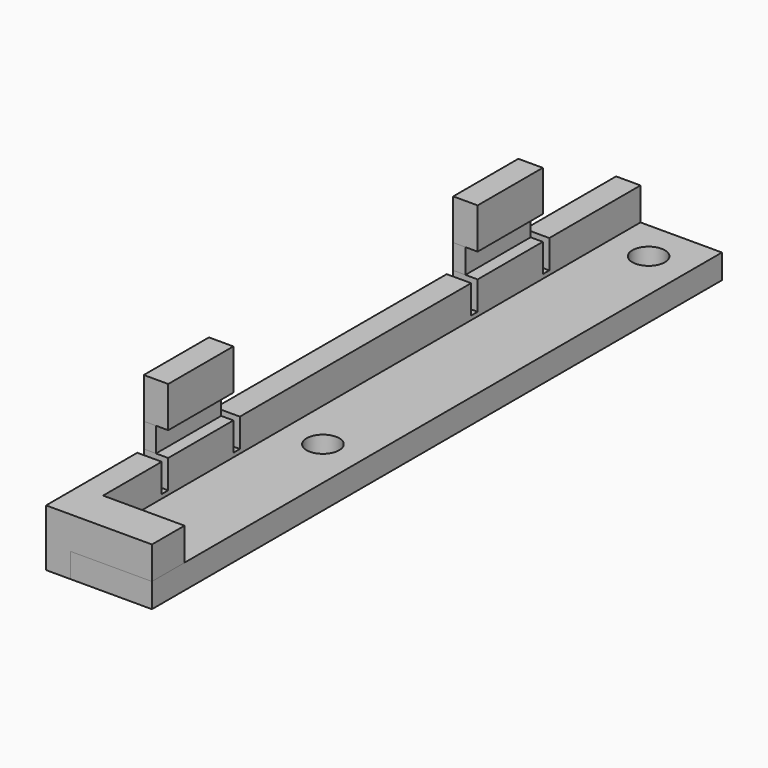
from build123d import *

# Parameters (mm, degrees)
F0_W     = 3
F0_H     = 13.5
F0_H_2   = 63
F0_W_2   = 10
F0_H_3   = 5
F1_DEPTH = 7
F0_R     = 2
F2_DEPTH = 3
F3_DEPTH = 3
F5_W     = 1
F5_H     = 3.5
F6_DEPTH = 13.001
F5_W_2   = 10
F5_H_2   = 5
F5_H_3   = 3
F7_DEPTH = 1.5
F8_DEPTH = 3


with BuildPart() as f1:
    # F0 (on Top) → F1 (new body)
    with BuildSketch(Plane.XY):
        with Locations((-87.4, 38.25)):
            Rectangle(F0_W, F0_H)
        with Locations((-87.4, 0)):
            Rectangle(F0_W, F0_H_2)
        Polygon((-88.9, -42.5), (-85.9, -42.5), (-85.9, -37.5), (-85.9, -31.5), (-88.9, -31.5), align=None)
        with Locations((-80.9, -40)):
            Rectangle(F0_W_2, F0_H_3)
    extrude(amount=F1_DEPTH)

    # F5 (on offset) → F6 (cut, through all)
    with BuildSketch(Plane(origin=(-88.9, 0, 0), x_dir=(0, -1, 0), z_dir=(-1, 0, 0))):
        with Locations((-30.5, 5.25)):
            Rectangle(F5_W, F5_H)
        with Locations((-19.5, 5.25)):
            Rectangle(F5_W, F5_H)
        with Locations((17, 5.25)):
            Rectangle(F5_W, F5_H)
        with Locations((28, 5.25)):
            Rectangle(F5_W, F5_H)
    extrude(amount=-F6_DEPTH, mode=Mode.SUBTRACT)


with BuildPart() as f2:
    # F0 (on Top) → F2 (new body)
    with BuildSketch(Plane.XY):
        Polygon((-85.9, -37.5), (-75.9, -37.5), (-75.9, 45), (-85.9, 45), (-85.9, 31.5), (-85.9, -31.5), align=None)
        with Locations((-80.9, -10)):
            Circle(F0_R, mode=Mode.SUBTRACT)
        with Locations((-80.9, 40)):
            Circle(F0_R, mode=Mode.SUBTRACT)
    extrude(amount=F2_DEPTH)

    # F0 (on Top) → F3 (join)
    with BuildSketch(Plane.XY):
        with Locations((-80.9, -40)):
            Rectangle(F0_W_2, F0_H_3)
    extrude(amount=F3_DEPTH)


with BuildPart() as f7:
    # F5 (on offset) → F7 (new body)
    with BuildSketch(Plane(origin=(-88.9, 0, 0), x_dir=(0, -1, 0), z_dir=(-1, 0, 0))):
        with Locations((-25, 12.5)):
            Rectangle(F5_W_2, F5_H_2)
        with Locations((-25, 8.5)):
            Rectangle(F5_W_2, F5_H_3)
    extrude(amount=-F7_DEPTH)


with BuildPart() as f7b:
    # F5 (on offset) → F7, piece 2 (new body)
    with BuildSketch(Plane(origin=(-88.9, 0, 0), x_dir=(0, -1, 0), z_dir=(-1, 0, 0))):
        with Locations((22.5, 12.5)):
            Rectangle(F5_W_2, F5_H_2)
        with Locations((22.5, 8.5)):
            Rectangle(F5_W_2, F5_H_3)
    extrude(amount=-F7_DEPTH)


with BuildPart() as f8:
    # F5 (on offset) → F8 (new body)
    with BuildSketch(Plane(origin=(-88.9, 0, 0), x_dir=(0, -1, 0), z_dir=(-1, 0, 0))):
        with Locations((22.5, 12.5)):
            Rectangle(F5_W_2, F5_H_2)
    extrude(amount=-F8_DEPTH)


with BuildPart() as f8b:
    # F5 (on offset) → F8, piece 2 (new body)
    with BuildSketch(Plane(origin=(-88.9, 0, 0), x_dir=(0, -1, 0), z_dir=(-1, 0, 0))):
        with Locations((-25, 12.5)):
            Rectangle(F5_W_2, F5_H_2)
    extrude(amount=-F8_DEPTH)


solid = Compound([f1.part, f2.part, f7.part, f7b.part, f8.part, f8b.part])
